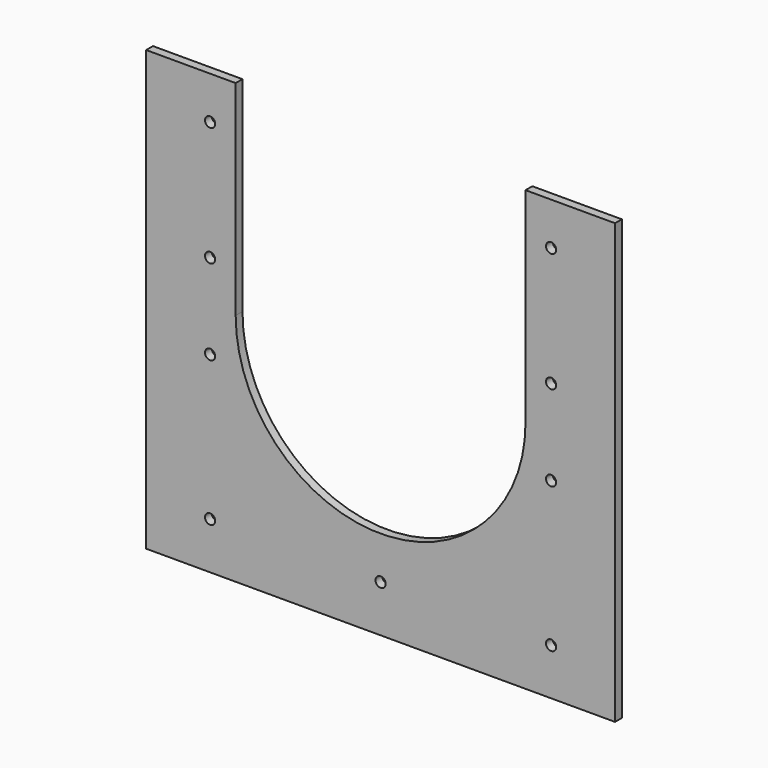
from build123d import *

# Parameters (mm, degrees)
SKETCH014_R      = 6
EXTRUDE013_DEPTH = 10
EXTRUDE003_DEPTH = 10
SKETCH003_W      = 550
SKETCH003_H      = 10
EXTRUDE012_DEPTH = 515


with BuildPart() as extrude013:
    # Sketch014 → Extrude013 (new body)
    with BuildSketch(Plane.XZ.offset(1530.409781)):
        with Locations((-200, 1910)):
            Circle(SKETCH014_R)
        with Locations((-200, 2050)):
            Circle(SKETCH014_R)
        with Locations((199.999995, 2050.062867)):
            Circle(SKETCH014_R)
        with Locations((199.999995, 1910.171143)):
            Circle(SKETCH014_R)
        with Locations((-200, 1810)):
            Circle(SKETCH014_R)
        with Locations((-200, 1640)):
            Circle(SKETCH014_R)
        with Locations((199.999956, 1809.813235)):
            Circle(SKETCH014_R)
        with Locations((199.999956, 1639.813235)):
            Circle(SKETCH014_R)
        with Locations((0, 1640)):
            Circle(SKETCH014_R)
    extrude(amount=-EXTRUDE013_DEPTH)


with BuildPart() as extrude003:
    # Sketch013 → Extrude003 (new body)
    with BuildSketch(Plane.XZ.offset(1530.409781)):
        with BuildLine():
            Line((-170, 2100), (-170, 1860))
            ThreePointArc((-170, 1860), (-1.9e-05, 1690), (170, 1859.999962))
            Line((170, 1859.999962), (170, 2100))
            Line((170, 2100), (-170, 2100))
        make_face()
    extrude(amount=-EXTRUDE003_DEPTH)


with BuildPart() as cut007:
    # Sketch003 → Extrude012 (new body)
    with BuildSketch(Plane.XY.offset(1585)):
        with Locations((0, -1525.409781)):
            Rectangle(SKETCH003_W, SKETCH003_H)
    extrude(amount=EXTRUDE012_DEPTH)

    # Cut005: cut Extrude003
    add(extrude003.part, mode=Mode.SUBTRACT)

    # Cut006: cut Extrude013
    add(extrude013.part, mode=Mode.SUBTRACT)


solid = cut007.part
